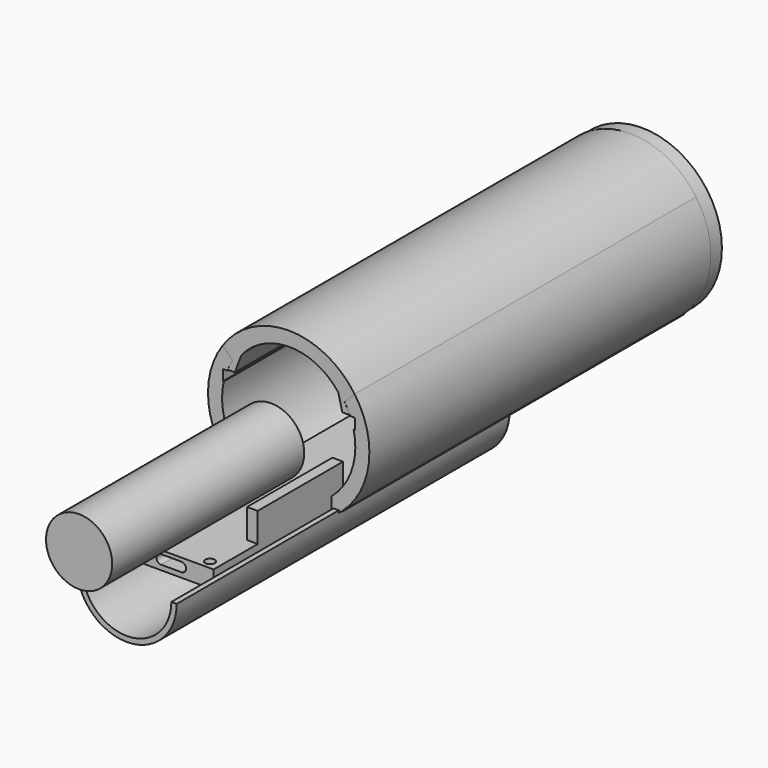
from build123d import *

# Parameters (mm, degrees)
SKETCH_W                = 81.8
SKETCH_H                = 23.8
PAD_DEPTH               = 5
SKETCH001_W             = 30
SKETCH001_H             = 3
PAD001_DEPTH            = 8.2
SKETCH002_W             = 40.6
SKETCH002_H             = 3
PAD002_DEPTH            = 8.2
POCKET_DEPTH            = 9
SKETCH004_R             = 1.35
POCKET001_DEPTH         = 5
BODY_ROLL_ANGLE         = 180
BODY_PLACEMENT_ANGLE    = -90
SKETCH005_W             = 20.5
SKETCH005_H             = 15.7
PAD003_DEPTH            = 3.3
SKETCH006_R             = 1.5
POCKET002_DEPTH         = 5
PAD004_DEPTH            = 20.5
SKETCH008_W             = 30
SKETCH008_H             = 120
PAD005_DEPTH            = 0.5
SKETCH009_R             = 4
SKETCH009_R_2           = 2.1
PAD006_DEPTH            = 7
SKETCH010_R             = 4
SKETCH010_R_2           = 2.1
PAD007_DEPTH            = 7
PAD010_DEPTH            = 120
PAD011_DEPTH            = 91
POCKET003_DEPTH         = 49
CHAMFER_SIZE            = 1
PAD012_DEPTH            = 60
PAD013_DEPTH            = 60
SKETCH016_R             = 22.5
PAD014_DEPTH            = 4
SKETCH013_R             = 9.3
PAD009_DEPTH            = 67.5
BODY004_PLACEMENT_ANGLE = 90
PAD015_DEPTH            = 117


with BuildPart() as iot_cellular:
    # Sketch → Pad (new body)
    with BuildSketch(Plane.XY):
        Rectangle(SKETCH_W, SKETCH_H)
    extrude(amount=PAD_DEPTH)

    # Sketch001 (on Face5 of Pad) → Pad001 (join)
    with BuildSketch(Plane(origin=(0, 0, 0), x_dir=(1, 0, 0), z_dir=(0, 0, -1))):
        with Locations((10.4, 10.4)):
            Rectangle(SKETCH001_W, SKETCH001_H)
    extrude(amount=PAD001_DEPTH)

    # Sketch002 (on Face4 of Pad001) → Pad002 (join)
    with BuildSketch(Plane(origin=(0, 0, 0), x_dir=(1, 0, 0), z_dir=(0, 0, -1))):
        with Locations((15.3, -10.4)):
            Rectangle(SKETCH002_W, SKETCH002_H)
    extrude(amount=PAD002_DEPTH)

    # Sketch003 (on Face6 of Pad002) → Pocket (cut)
    with BuildSketch(Plane.YZ.offset(40.9)):
        with BuildLine():
            ThreePointArc((-2.85, 3.618848), (-4.15, 2.318848), (-2.85, 1.018848))
            Line((-2.85, 1.018848), (2.85, 1.018848))
            ThreePointArc((2.85, 1.018848), (4.15, 2.318848), (2.85, 3.618848))
            Line((2.85, 3.618848), (-2.85, 3.618848))
        make_face()
    extrude(amount=-POCKET_DEPTH, mode=Mode.SUBTRACT)

    # Sketch004 (on Face5 of Pocket) → Pocket001 (cut)
    with BuildSketch(Plane.XY.offset(5)):
        with Locations((38.4, 8.9)):
            Circle(SKETCH004_R)
        with Locations((38.4, -8.9)):
            Circle(SKETCH004_R)
        with Locations((-38.4, -8.9)):
            Circle(SKETCH004_R)
        with Locations((-38.4, 8.9)):
            Circle(SKETCH004_R)
    extrude(amount=-POCKET001_DEPTH, mode=Mode.SUBTRACT)


with BuildPart() as iot_cellular_1:
    # Body roll: moved
    add(iot_cellular.part.rotate(Axis((0, 0, 0), (1, 0, 0)), BODY_ROLL_ANGLE))


with BuildPart() as iot_cellular_2:
    # Body placement: moved
    add(iot_cellular_1.part.moved(Location((0, -60.5, 1.5))).rotate(Axis((0, -60.5, 1.5), (0, 0, 1)), BODY_PLACEMENT_ANGLE))


with BuildPart() as obj1:
    # Sketch005 → Pad003 (new body)
    with BuildSketch(Plane.XY):
        Rectangle(SKETCH005_W, SKETCH005_H)
    extrude(amount=PAD003_DEPTH)

    # Sketch006 (on Face6 of Pad003) → Pocket002 (cut)
    with BuildSketch(Plane.XY.offset(3.3)):
        with Locations((-8.05, 5.35)):
            Circle(SKETCH006_R)
        with Locations((8.05, 5.35)):
            Circle(SKETCH006_R)
    extrude(amount=-POCKET002_DEPTH, mode=Mode.SUBTRACT)

    # Sketch007 (on Face6 of Pocket002) → Pad004 (join)
    with BuildSketch(Plane.YZ.offset(10.25)):
        Polygon((-7.85, 3.3), (-7.85, 8.3), (-14.35, 8.3), (-14.35, 10.3), (-5.35, 10.3), (-5.35, 3.3), (-6.837162, 2.49178), align=None)
    extrude(amount=-PAD004_DEPTH)


with BuildPart() as obj1_1:
    # Body001 placement: moved
    add(obj1.part.moved(Location((0.3, -9.55, -3.3))))


with BuildPart() as base:
    # Sketch008 → Pad005 (new body)
    with BuildSketch(Plane.XY):
        Rectangle(SKETCH008_W, SKETCH008_H)
    extrude(amount=PAD005_DEPTH)

    # Sketch009 (on Face6 of Pad005) → Pad006 (join)
    with BuildSketch(Plane.XY.offset(0.5)):
        with Locations((-8.943967, -54.900711)):
            Circle(SKETCH009_R)
        with Locations((-8.943967, -54.900711)):
            Circle(SKETCH009_R_2, mode=Mode.SUBTRACT)
        with Locations((8.91464, 21.910276)):
            Circle(SKETCH009_R)
        with Locations((8.91464, 21.910276)):
            Circle(SKETCH009_R_2, mode=Mode.SUBTRACT)
    extrude(amount=PAD006_DEPTH)

    # Sketch010 (on Face5 of Pad006) → Pad007 (join)
    with BuildSketch(Plane.XY.offset(0.5)):
        with Locations((8.60808, 50.791843)):
            Circle(SKETCH010_R)
        with Locations((8.60808, 50.791843)):
            Circle(SKETCH010_R_2, mode=Mode.SUBTRACT)
        with Locations((8.60808, 34.682446)):
            Circle(SKETCH010_R)
        with Locations((8.60808, 34.682446)):
            Circle(SKETCH010_R_2, mode=Mode.SUBTRACT)
    extrude(amount=PAD007_DEPTH)

    # Sketch011 (on Face2 of Pad007) → Pad010 (join)
    with BuildSketch(Plane(origin=(0, 60, 0), x_dir=(-1, 0, 0), z_dir=(0, 1, 0))):
        with BuildLine():
            ThreePointArc((-18.423956, 30.207189), (0.109272, -5.570123), (18.6425, 30.207189))
            Line((18.6425, 30.207189), (15.814073, 27.378762))
            ThreePointArc((7.616954, 0), (18.056528, 11.7909), (15.814073, 27.378762))
            Line((-7.398411, 0), (7.616954, 0))
            ThreePointArc((-15.595529, 27.378762), (-17.837984, 11.7909), (-7.398411, 0))
            Line((-18.423956, 30.207189), (-15.595529, 27.378762))
        make_face()
    extrude(amount=-PAD010_DEPTH)

    # Sketch014 (on Face21 of Pad010) → Pad011 (join)
    with BuildSketch(Plane.XZ.offset(60)):
        with BuildLine():
            ThreePointArc((-2.272162, 32.036385), (-9.45419, 23.396878), (-3.374223, 13.949307))
            Line((-3.374223, 13.949307), (-3.374223, 12.449307))
            ThreePointArc((-10.930957, 21.352634), (-8.446301, 15.802928), (-3.374223, 12.449307))
            Line((-10.930957, 21.352634), (-18.59561, 21.352634))
            Line((-18.59561, 21.352634), (-18.59561, 24.352634))
            Line((-18.59561, 24.352634), (-10.930957, 24.352634))
            ThreePointArc((-2.272162, 33.536385), (-8.067049, 30.326229), (-10.930957, 24.352634))
            Line((-2.272162, 32.036385), (-2.272162, 33.536385))
        make_face()
        with BuildLine():
            ThreePointArc((3.374223, 13.949307), (9.45419, 23.396878), (2.272162, 32.036385))
            Line((2.272162, 32.036385), (2.272162, 33.536385))
            ThreePointArc((10.930957, 24.352634), (8.067049, 30.326229), (2.272162, 33.536385))
            Line((18.59561, 24.352634), (10.930957, 24.352634))
            Line((18.59561, 21.352634), (18.59561, 24.352634))
            Line((10.930957, 21.352634), (18.59561, 21.352634))
            ThreePointArc((3.374223, 12.449307), (8.446301, 15.802928), (10.930957, 21.352634))
            Line((3.374223, 13.949307), (3.374223, 12.449307))
        make_face()
    extrude(amount=-PAD011_DEPTH)

    # Sketch014 (on Face21 of Pad010) → Pocket003 (cut)
    with BuildSketch(Plane.XZ.offset(60)):
        with BuildLine():
            ThreePointArc((-2.272162, 32.036385), (-9.45419, 23.396878), (-3.374223, 13.949307))
            Line((-3.374223, 13.949307), (-3.374223, 12.449307))
            ThreePointArc((-10.930957, 21.352634), (-8.446301, 15.802928), (-3.374223, 12.449307))
            Line((-10.930957, 21.352634), (-18.59561, 21.352634))
            Line((-18.59561, 21.352634), (-18.59561, 24.352634))
            Line((-18.59561, 24.352634), (-10.930957, 24.352634))
            ThreePointArc((-2.272162, 33.536385), (-8.067049, 30.326229), (-10.930957, 24.352634))
            Line((-2.272162, 32.036385), (-2.272162, 33.536385))
        make_face()
        with BuildLine():
            ThreePointArc((3.374223, 13.949307), (9.45419, 23.396878), (2.272162, 32.036385))
            Line((2.272162, 32.036385), (2.272162, 33.536385))
            ThreePointArc((10.930957, 24.352634), (8.067049, 30.326229), (2.272162, 33.536385))
            Line((18.59561, 24.352634), (10.930957, 24.352634))
            Line((18.59561, 21.352634), (18.59561, 24.352634))
            Line((10.930957, 21.352634), (18.59561, 21.352634))
            ThreePointArc((3.374223, 12.449307), (8.446301, 15.802928), (10.930957, 21.352634))
            Line((3.374223, 13.949307), (3.374223, 12.449307))
        make_face()
    extrude(amount=-POCKET003_DEPTH, mode=Mode.SUBTRACT)

    # Chamfer
    chamfer_edges = [base.edges().sort_by_distance(p)[0] for p in [
        (-6.020152, -52.171003, 0.5),
    ]]
    chamfer(chamfer_edges, length=CHAMFER_SIZE)


with BuildPart() as top:
    # Sketch015 → Pad012 (new body)
    with BuildSketch(Plane.XZ):
        with BuildLine():
            ThreePointArc((18.42449, 30.20071), (-0.110832, 39.921445), (-18.646065, 30.200541))
            Line((-18.646065, 30.200541), (-15.876334, 27.404834))
            ThreePointArc((-15.876334, 27.404834), (-16.585053, 26.028763), (-17.255076, 24.633442))
            Line((-17.255076, 24.633442), (-15.245028, 24.633442))
            Line((-15.245028, 24.633442), (-13.429057, 29.481621))
            ThreePointArc((13.869144, 29.071563), (0.319921, 35.925542), (-13.429057, 29.481621))
            Line((14.982162, 24.56171), (13.869144, 29.071563))
            Line((17.084009, 24.56171), (14.982162, 24.56171))
            ThreePointArc((17.084009, 24.56171), (16.401505, 25.971527), (15.586155, 27.308913))
            Line((18.42449, 30.20071), (15.586155, 27.308913))
        make_face()
    extrude(amount=PAD012_DEPTH)

    # Sketch015 → Pad013 (join)
    with BuildSketch(Plane.XZ):
        with BuildLine():
            ThreePointArc((18.42449, 30.20071), (-0.110832, 39.921445), (-18.646065, 30.200541))
            Line((-18.646065, 30.200541), (-15.876334, 27.404834))
            ThreePointArc((-15.876334, 27.404834), (-16.585053, 26.028763), (-17.255076, 24.633442))
            Line((-17.255076, 24.633442), (-15.245028, 24.633442))
            Line((-15.245028, 24.633442), (-13.429057, 29.481621))
            ThreePointArc((13.869144, 29.071563), (0.319921, 35.925542), (-13.429057, 29.481621))
            Line((14.982162, 24.56171), (13.869144, 29.071563))
            Line((17.084009, 24.56171), (14.982162, 24.56171))
            ThreePointArc((17.084009, 24.56171), (16.401505, 25.971527), (15.586155, 27.308913))
            Line((18.42449, 30.20071), (15.586155, 27.308913))
        make_face()
    extrude(amount=-PAD013_DEPTH)

    # Sketch016 (on Face7 of Pad013) → Pad014 (join)
    with BuildSketch(Plane(origin=(0, 60, 0), x_dir=(1, 0, 0), z_dir=(0, 1, 0))):
        with Locations((0, -17.237444)):
            Circle(SKETCH016_R)
    extrude(amount=PAD014_DEPTH)


with BuildPart() as battery:
    # Sketch013 → Pad009 (new body)
    with BuildSketch(Plane.XY):
        Circle(SKETCH013_R)
    extrude(amount=PAD009_DEPTH)


with BuildPart() as battery_1:
    # Body004 placement: moved
    add(battery.part.moved(Location((0, -133.8, 15.2))).rotate(Axis((0, -133.8, 15.2), (-1, 0, 0)), BODY004_PLACEMENT_ANGLE))


with BuildPart() as body006:
    # Sketch017 → Pad015 (new body)
    with BuildSketch(Plane.XZ):
        with BuildLine():
            ThreePointArc((-12.5, 0), (0, -12.5), (12.5, 0))
            Line((14, 0), (12.5, 0))
            ThreePointArc((-14, 0), (0, -14), (14, 0))
            Line((-12.5, 0), (-14, 0))
        make_face()
    extrude(amount=PAD015_DEPTH)


solid = Compound([iot_cellular_2.part, obj1_1.part, base.part, top.part, battery_1.part, body006.part])
